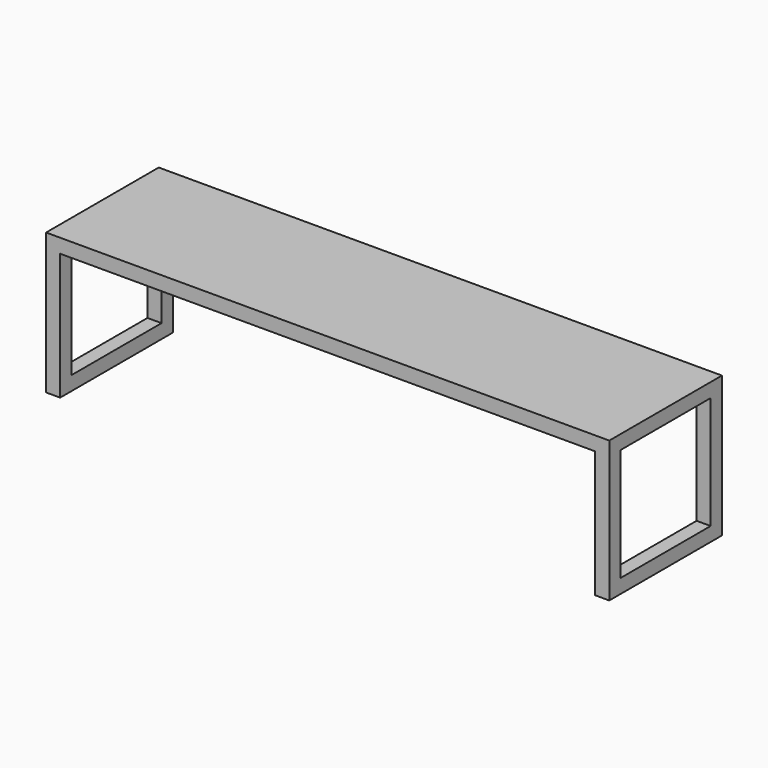
from build123d import *

# Parameters (mm, degrees)
F0_W     = 2000
F0_H     = 500
F1_DEPTH = 500
F2_W     = 1900
F2_H     = 450
F3_DEPTH = 500.001
F4_W     = 400
F4_H     = 400
F5_DEPTH = 2000.001
F6_SCALE = 0.5


with BuildPart() as f1:
    # F0 (on Front) → F1 (new body)
    with BuildSketch(Plane.XZ):
        with Locations((1000, 250)):
            Rectangle(F0_W, F0_H)
    extrude(amount=F1_DEPTH)

    # F2 (on face) → F3 (cut, through all)
    with BuildSketch(Plane.XZ.offset(500)):
        with Locations((1000, 225)):
            Rectangle(F2_W, F2_H)
    extrude(amount=-F3_DEPTH, mode=Mode.SUBTRACT)

    # F4 (on face) → F5 (cut, through all)
    with BuildSketch(Plane(origin=(0, 0, 0), x_dir=(0, -1, 0), z_dir=(-1, 0, 0))):
        with Locations((250, 250)):
            Rectangle(F4_W, F4_H)
    extrude(amount=-F5_DEPTH, mode=Mode.SUBTRACT)


with BuildPart() as f1_1:
    # F6: moved
    add(f1.part.scale(F6_SCALE))


solid = f1_1.part
